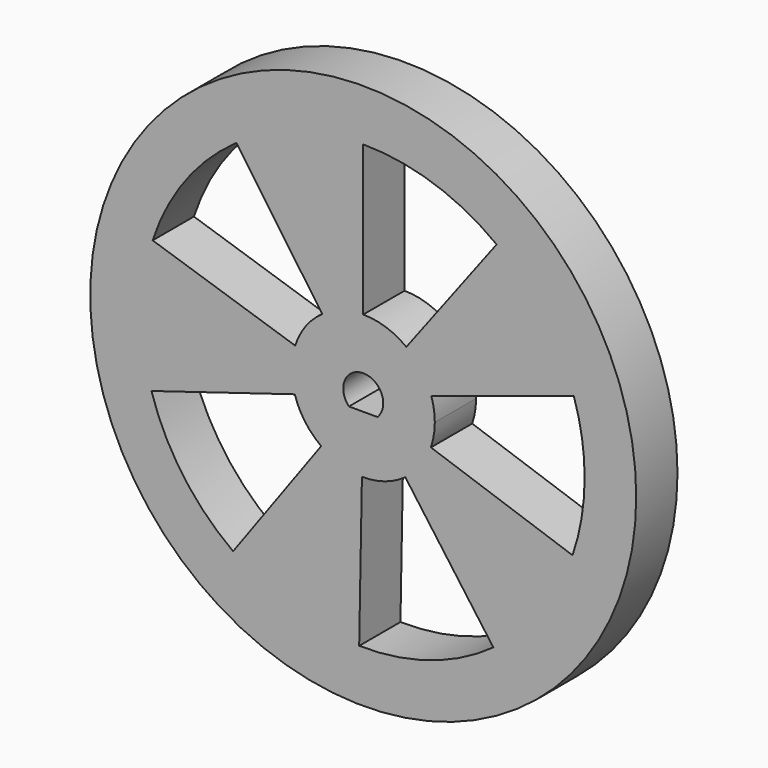
from build123d import *

# Parameters (mm, degrees)
F0_R     = 31.75
F1_DEPTH = 6


with BuildPart() as f1:
    # F0 (on Front) → F1 (new body)
    with BuildSketch(Plane.XZ):
        Circle(F0_R)
        with BuildLine():
            ThreePointArc((15.514218, 20.55168), (20.96983, 14.944187), (24.489705, 7.957188))
            ThreePointArc((24.489705, 7.957188), (25.432975, 4.028187), (25.75, 0))
            ThreePointArc((25.75, 0), (25.395045, -4.260773), (24.339966, -8.404079))
            ThreePointArc((24.339966, -8.404079), (20.6928, -15.325486), (15.13547, -20.832188))
            ThreePointArc((15.13547, -20.832188), (7.732733, -24.561501), (-0.471291, -25.745687))
            ThreePointArc((-0.471291, -25.745687), (-8.180976, -24.415858), (-15.13547, -20.832188))
            ThreePointArc((-15.13547, -20.832188), (-20.96983, -14.944187), (-24.63124, -7.50763))
            ThreePointArc((-24.63124, -7.50763), (-25.748922, 0.235655), (-24.489705, 7.957188))
            ThreePointArc((-24.489705, 7.957188), (-20.6928, 15.325486), (-14.751652, 21.105716))
            ThreePointArc((-14.751652, 21.105716), (-7.732733, 24.561501), (0, 25.75))
            ThreePointArc((0, 25.75), (8.180976, 24.415858), (15.514218, 20.55168))
        make_face(mode=Mode.SUBTRACT)
        with BuildLine():
            ThreePointArc((-4.769224, 6.823498), (-2.5, 7.940757), (0, 8.325))
            Line((0, 8.325), (0, 25.75))
            ThreePointArc((0, 25.75), (-7.732733, 24.561501), (-14.751652, 21.105716))
            Line((-14.751652, 21.105716), (-4.769224, 6.823498))
        make_face()
        with BuildLine():
            ThreePointArc((5.015762, 6.644378), (6.779566, 4.83147), (7.917545, 2.572566))
            Line((7.917545, 2.572566), (24.489705, 7.957188))
            ThreePointArc((24.489705, 7.957188), (20.96983, 14.944187), (15.514218, 20.55168))
            Line((15.514218, 20.55168), (5.015762, 6.644378))
        make_face()
        with BuildLine():
            Line((24.339966, -8.404079), (7.869135, -2.717047))
            ThreePointArc((7.869135, -2.717047), (6.690002, -4.954744), (4.893312, -6.735066))
            Line((4.893312, -6.735066), (15.13547, -20.832188))
            ThreePointArc((15.13547, -20.832188), (20.6928, -15.325486), (24.339966, -8.404079))
        make_face()
        with BuildLine():
            Line((-0.471291, -25.745687), (-0.152369, -8.323606))
            ThreePointArc((-0.152369, -8.323606), (-2.644917, -7.893671), (-4.893312, -6.735066))
            Line((-4.893312, -6.735066), (-15.13547, -20.832188))
            ThreePointArc((-15.13547, -20.832188), (-8.180976, -24.415858), (-0.471291, -25.745687))
        make_face()
        with BuildLine():
            ThreePointArc((-7.963304, -2.427224), (-8.324651, 0.076188), (-7.917545, 2.572566))
            Line((-7.917545, 2.572566), (-24.489705, 7.957188))
            ThreePointArc((-24.489705, 7.957188), (-25.748922, 0.235655), (-24.63124, -7.50763))
            Line((-24.63124, -7.50763), (-7.963304, -2.427224))
        make_face()
        with BuildLine():
            ThreePointArc((7.869135, -2.717047), (8.210243, -1.377512), (8.325, 0))
            ThreePointArc((8.325, 0), (8.222505, 1.302317), (7.917545, 2.572566))
            ThreePointArc((7.917545, 2.572566), (6.779566, 4.83147), (5.015762, 6.644378))
            ThreePointArc((5.015762, 6.644378), (2.644917, 7.893671), (0, 8.325))
            ThreePointArc((0, 8.325), (-2.5, 7.940757), (-4.769224, 6.823498))
            ThreePointArc((-4.769224, 6.823498), (-6.690002, 4.954744), (-7.917545, 2.572566))
            ThreePointArc((-7.917545, 2.572566), (-8.324651, 0.076188), (-7.963304, -2.427224))
            ThreePointArc((-7.963304, -2.427224), (-6.779566, -4.83147), (-4.893312, -6.735066))
            ThreePointArc((-4.893312, -6.735066), (-2.644917, -7.893671), (-0.152369, -8.323606))
            ThreePointArc((-0.152369, -8.323606), (2.5, -7.940757), (4.893312, -6.735066))
            ThreePointArc((4.893312, -6.735066), (6.690002, -4.954744), (7.869135, -2.717047))
        make_face()
        with BuildLine():
            ThreePointArc((-1.683746, -1.675), (0, 2.375), (1.683746, -1.675))
            Line((1.683746, -1.675), (-1.683746, -1.675))
        make_face(mode=Mode.SUBTRACT)
        with BuildLine():
            Line((-1.683746, -1.675), (1.683746, -1.675))
            ThreePointArc((1.683746, -1.675), (0, 2.375), (-1.683746, -1.675))
        make_face()
        with BuildLine():
            ThreePointArc((-1.662829, -1.625), (0, 2.325), (1.662829, -1.625))
            Line((1.662829, -1.625), (-1.662829, -1.625))
        make_face(mode=Mode.SUBTRACT)
    extrude(amount=F1_DEPTH)


solid = f1.part
